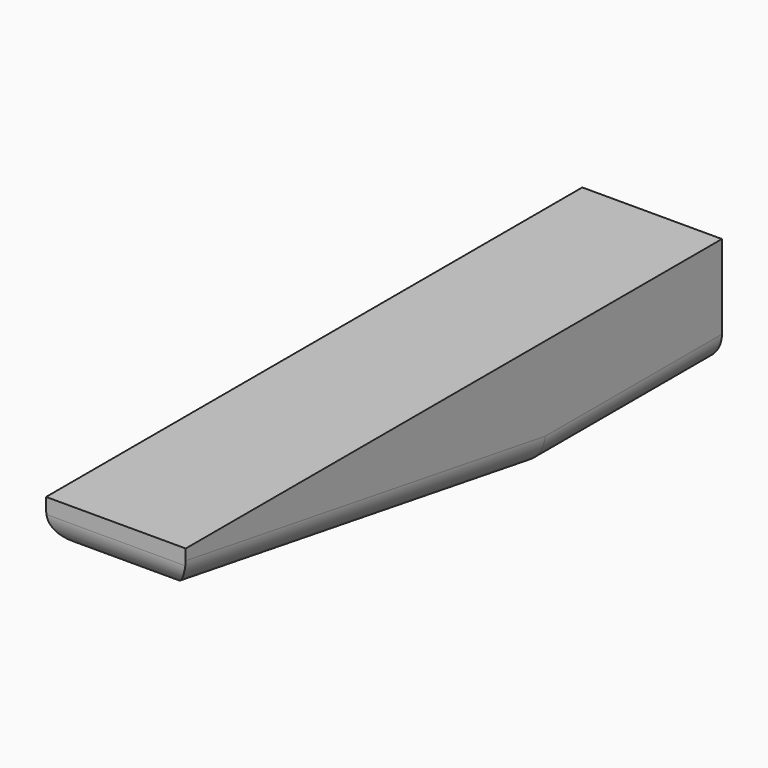
from build123d import *

# Parameters (mm, degrees)
F1_DEPTH = 25
F2_R     = 5


with BuildPart() as f1:
    # F0 (on Right) → F1 (new body)
    with BuildSketch(Plane.YZ):
        Polygon((0, -20), (0, 0), (-120, 0), (-120, -7), (-40, -20), align=None)
    extrude(amount=F1_DEPTH)

    # F2
    f2_edges = [f1.edges().sort_by_distance(p)[0] for p in [
        (25, -20, -20),
        (25, -80, -13.5),
        (12.5, -120, -7),
        (0, -80, -13.5),
        (0, -20, -20),
    ]]
    fillet(f2_edges, radius=F2_R)


solid = f1.part
